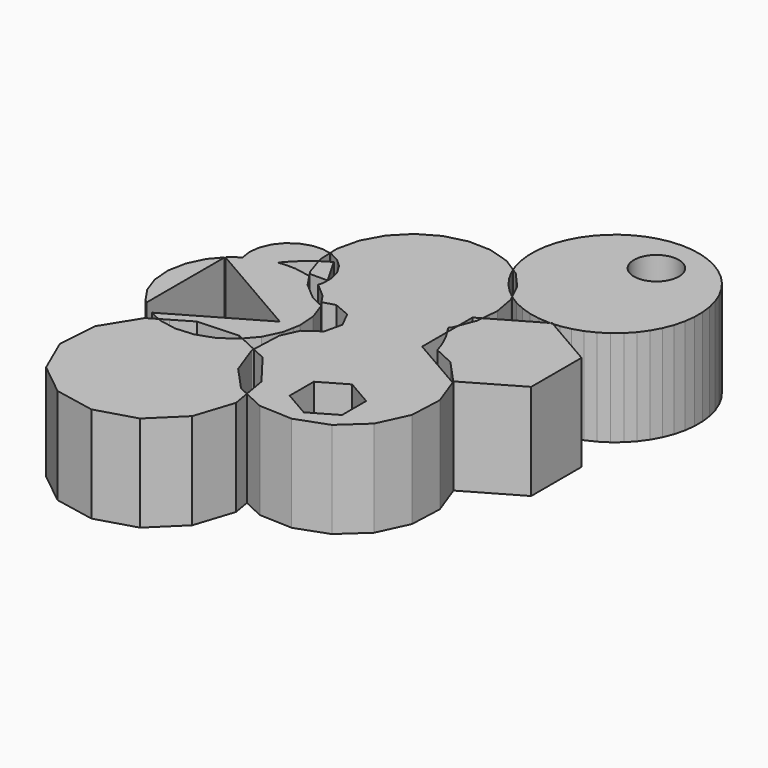
from build123d import *

# Parameters (mm, degrees)
F1_DEPTH = 25.4
F2_R     = 5.9404503645
F3_DEPTH = 25.401
F5_DEPTH = 25.401
F7_DEPTH = 25.401


with BuildPart() as f1:
    # F0 (on Top) → F1 (new body)
    with BuildSketch(Plane.XY):
        Polygon((38.6255197227, 32.1971718366), (38.9059876711, 32.0352435911), (40.6593169873, 32.1504881692), (43.3751453185, 32.6764530991), (46.0036376468, 33.5386541851), (48.5033410779, 34.7234940008), (50.8348337955, 36.2122869147), (52.9613467665, 37.9815537731), (54.8493436113, 40.0033921807), (56.4690494916, 42.2459165381), (57.7949206783, 44.6737608966), (58.8060473905, 47.2486367002), (59.4864835562, 49.9299366195), (59.8254982904, 52.6753749528), (59.8177451283, 55.4416544978), (59.4633463418, 58.1851493734), (58.7678910117, 60.8625930267), (57.7423468837, 63.4317605716), (56.4028874016, 65.8521347014), (54.7706366415, 68.0855446701), (52.8713361728, 70.0967682684), (50.7349390987, 71.8540872986), (48.3951376771, 73.3297877899), (45.8888319743, 74.500597064), (43.2555479283, 75.3480507593), (40.5368140016, 75.8587840246), (37.7755062524, 76.0247422914), (35.0151721532, 75.8433082986), (32.299343822, 75.3173433687), (29.6708514937, 74.4551422827), (27.1711480626, 73.270302467), (24.8396553451, 71.7815095531), (22.713142374, 70.0122426947), (20.8251455292, 67.9904042871), (19.2054396489, 65.7478799296), (17.8795684623, 63.3200355712), (16.86844175, 60.7451597676), (16.1880055843, 58.0638598483), (15.8489908501, 55.3184215149), (15.8567440123, 52.55214197), (16.2111427987, 49.8086470943), (16.9065981289, 47.1312034411), (17.4541888964, 45.7593927217), (18.8612519303, 44.8539979758), (22.7807706822, 40.4374740828), (24.8252480405, 36.2337296509), (24.9395500418, 36.1397091692), (27.2793514634, 34.6640086778), (29.7856571662, 33.4931994037), (32.4189412122, 32.6457457085), (35.1376751389, 32.1350124431), (37.8989828882, 31.9690541764), (38.2729872295, 31.9936371067), align=None)
    extrude(amount=F1_DEPTH)

    # F2 (on face) → F3 (cut, through all)
    with BuildSketch(Plane.XY.offset(25.4)):
        with Locations((40.0871783495, 64.7861286998)):
            Circle(F2_R)
    extrude(amount=-F3_DEPTH, mode=Mode.SUBTRACT)


with BuildPart() as f1b:
    # F0 (on Top) → F1, piece 2 (new body)
    with BuildSketch(Plane.XY):
        with BuildLine():
            Line((20.2202311075, 13.1900553117), (23.1422120773, 17.1140690797))
            ThreePointArc((23.1422120773, 17.1140690797), (6.7140997312, 27.9888228601), (-12.8596717113, 25.7503822063))
            Line((-12.8596717113, 25.7503822063), (-11.6851387854, 24.6534450282))
            Line((-11.6851387854, 24.6534450282), (-10.2225554886, 22.2483292629))
            Line((-10.2225554886, 22.2483292629), (-9.4631012155, 19.5378014634))
            Line((-9.4631012155, 19.5378014634), (-9.4631012155, 18.13034527))
            Line((-9.4631012155, 18.13034527), (-9.4631012155, 16.7228890767))
            Line((-9.4631012155, 16.7228890767), (-9.8367636983, 15.3892702095))
            Line((-9.8367636983, 15.3892702095), (-9.6990329086, 15.3231641348))
            Line((-9.6990329086, 15.3231641348), (-6.0739867066, 12.2117954625))
            Line((-6.0739867066, 12.2117954625), (-4.3897209778, 9.7483537575))
            Line((-4.3897209778, 9.7483537575), (-1.2420349949, 10.701861688))
            Line((-1.2420349949, 10.701861688), (3.1300738388, 8.8327400053))
            Line((3.1300738388, 8.8327400053), (4.2039645479, 6.7116561728))
            Line((4.2039645479, 6.7116561728), (10.0724409367, 7.3668625669))
            Line((10.0724409367, 7.3668625669), (15.5465257322, 9.5810681118))
            Line((15.5465257322, 9.5810681118), (20.2202311075, 13.1900553117))
        make_face()
        with BuildLine():
            ThreePointArc((-12.8596717113, 25.7503822063), (6.7140997312, 27.9888228601), (23.1422120773, 17.1140690797))
            Line((23.1422120773, 17.1140690797), (23.7469297157, 17.9261620959))
            Line((23.7469297157, 17.9261620959), (24.2156683545, 19.1459505131))
            Line((24.2156683545, 19.1459505131), (24.2156683545, 23.8776402702))
            Line((24.2156683545, 23.8776402702), (26.0033568718, 24.9097627169))
            Line((26.0033568718, 24.9097627169), (26.4175371087, 29.3171706222))
            Line((26.4175371087, 29.3171706222), (25.3633791604, 35.1272533724))
            Line((25.3633791604, 35.1272533724), (24.8252480405, 36.2337296509))
            Line((24.8252480405, 36.2337296509), (22.8031529677, 37.8970281994))
            Line((22.8031529677, 37.8970281994), (20.9038524991, 39.9082517977))
            Line((20.9038524991, 39.9082517977), (19.2716017389, 42.1416617664))
            Line((19.2716017389, 42.1416617664), (17.9321422568, 44.5620358962))
            Line((17.9321422568, 44.5620358962), (17.4541888964, 45.7593927217))
            Line((17.4541888964, 45.7593927217), (13.89551568, 48.0492716787))
            Line((13.89551568, 48.0492716787), (8.2518478721, 49.7863163582))
            Line((8.2518478721, 49.7863163582), (2.34881353, 49.9363033569))
            Line((2.34881353, 49.9363033569), (-3.3757862938, 48.4881088254))
            Line((-3.3757862938, 48.4881088254), (-8.4973842187, 45.5491387269))
            Line((-8.4973842187, 45.5491387269), (-12.6361347563, 41.3373630287))
            Line((-12.6361347563, 41.3373630287), (-15.4850857128, 36.1651498669))
            Line((-15.4850857128, 36.1651498669), (-16.8329434288, 30.4160986302))
            Line((-16.8329434288, 30.4160986302), (-16.727997066, 27.9708693955))
            Line((-16.727997066, 27.9708693955), (-16.2416970932, 27.869815099))
            Line((-16.2416970932, 27.869815099), (-13.7423779939, 26.5747723256))
            Line((-13.7423779939, 26.5747723256), (-12.8596717113, 25.7503822063))
        make_face()
        with BuildLine():
            ThreePointArc((28.3733258744, 4.8381524491), (28.6802977645, 2.4277274218), (28.7828653941, 0))
            ThreePointArc((28.7828653941, 0), (23.1366804478, -17.1215466051), (8.4132910563, -27.5258037829))
            Line((8.4132910563, -27.5258037829), (9.1459829048, -31.820513794))
            Line((9.1459829048, -31.820513794), (14.6004309277, -34.3588426688))
            Line((14.6004309277, -34.3588426688), (23.3261366969, -34.7330697709))
            Line((23.3261366969, -34.7330697709), (31.5308481756, -31.7396274975))
            Line((31.5308481756, -31.7396274975), (37.9654724172, -25.8342402992))
            Line((37.9654724172, -25.8342402992), (41.6503962109, -17.9159498443))
            Line((41.6503962109, -17.9159498443), (42.024623313, -9.1902440751))
            Line((42.024623313, -9.1902440751), (39.0311810396, -0.9855325964))
            Line((39.0311810396, -0.9855325964), (38.9479240713, -0.8948141916))
            Line((38.9479240713, -0.8948141916), (38.6255197227, -1.080954429))
            Line((38.6255197227, -1.080954429), (28.3733258744, 4.8381524491))
        make_face()
        with BuildLine():
            ThreePointArc((8.4132910563, -27.5258037829), (23.1366804478, -17.1215466051), (28.7828653941, 0))
            ThreePointArc((28.7828653941, 0), (28.6802977645, 2.4277274218), (28.3733258744, 4.8381524491))
            Line((28.3733258744, 4.8381524491), (24.2156683545, 7.2385771374))
            Line((24.2156683545, 7.2385771374), (24.2156683545, 9.1765531498))
            Line((24.2156683545, 9.1765531498), (16.4817976172, 9.508242541))
            Line((16.4817976172, 9.508242541), (8.2770861384, 6.5148002676))
            Line((8.2770861384, 6.5148002676), (5.0315883267, 3.5362392032))
            Line((5.0315883267, 3.5362392032), (4.196338464, -0.0396839103))
            Line((4.196338464, -0.0396839103), (0.3915771872, -2.891480387))
            Line((0.3915771872, -2.891480387), (0.2177050356, -2.8819201214))
            Line((0.2177050356, -2.8819201214), (-1.8424618968, -7.3088773857))
            Line((-1.8424618968, -7.3088773857), (-2.1882418165, -15.3712914203))
            Line((-2.1882418165, -15.3712914203), (1.5308094737, -17.1002806211))
            Line((1.5308094737, -17.1002806211), (8.1024370829, -25.7037176299))
            Line((8.1024370829, -25.7037176299), (8.4132910563, -27.5258037829))
        make_face()
        with BuildLine():
            Line((24.2156683545, 9.1765531498), (24.2156683545, 15.5581087038))
            ThreePointArc((24.2156683545, 15.5581087038), (23.6917171797, 16.3449037126), (23.1422120773, 17.1140690797))
            Line((23.1422120773, 17.1140690797), (20.2202311075, 13.1900553117))
            Line((20.2202311075, 13.1900553117), (15.5465257322, 9.5810681118))
            Line((15.5465257322, 9.5810681118), (10.0724409367, 7.3668625669))
            Line((10.0724409367, 7.3668625669), (4.2039645479, 6.7116561728))
            Line((4.2039645479, 6.7116561728), (5.277855257, 4.5905723402))
            Line((5.277855257, 4.5905723402), (5.0315883267, 3.5362392032))
            Line((5.0315883267, 3.5362392032), (8.2770861384, 6.5148002676))
            Line((8.2770861384, 6.5148002676), (16.4817976172, 9.508242541))
            Line((16.4817976172, 9.508242541), (24.2156683545, 9.1765531498))
        make_face()
    extrude(amount=F1_DEPTH)

    # F4 (on face) → F5 (cut, through all)
    with BuildSketch(Plane.XY.offset(25.4)):
        Polygon((30.4059423506, -26.9696146458), (30.4059423506, -18.9801014751), (23.4868209809, -14.9853448898), (16.5676996112, -18.9801014751), (16.5676996112, -26.9696146458), (23.4868209809, -30.9643712312), align=None)
    extrude(amount=-F5_DEPTH, mode=Mode.SUBTRACT)


with BuildPart() as f1c:
    # F0 (on Top) → F1, piece 3 (new body)
    with BuildSketch(Plane.XY):
        with BuildLine():
            ThreePointArc((24.2156683545, 15.5581087038), (26.2066330001, 11.9023412441), (27.6494392789, 7.9976151357))
            Line((27.6494392789, 7.9976151357), (33.1257938412, 5.4490916452))
            Line((33.1257938412, 5.4490916452), (38.9479240713, -0.8948141916))
            Line((38.9479240713, -0.8948141916), (53.0353710909, 7.2385771374))
            Line((53.0353710909, 7.2385771374), (53.0353710909, 23.8776402702))
            Line((53.0353710909, 23.8776402702), (38.9059876711, 32.0352435911))
            Line((38.9059876711, 32.0352435911), (38.2729872295, 31.9936371067))
            Line((38.2729872295, 31.9936371067), (26.0033568718, 24.9097627169))
            Line((26.0033568718, 24.9097627169), (25.8650624546, 23.4381330904))
            Line((25.8650624546, 23.4381330904), (24.2156683545, 19.1459505131))
            Line((24.2156683545, 19.1459505131), (24.2156683545, 15.5581087038))
        make_face()
    extrude(amount=F1_DEPTH)


with BuildPart() as f1d:
    # F0 (on Top) → F1, piece 4 (new body)
    with BuildSketch(Plane.XY):
        with BuildLine():
            Line((-23.4642712006, 17.9090608392), (-22.4722893501, 17.9847032686))
            ThreePointArc((-22.4722893501, 17.9847032686), (-19.7270370189, 20.959421527), (-16.591618375, 23.5195990611))
            Line((-16.591618375, 23.5195990611), (-16.3758885964, 23.8932539983))
            Line((-16.3758885964, 23.8932539983), (-16.5797434636, 24.5165901489))
            Line((-16.5797434636, 24.5165901489), (-16.727997066, 27.9708693955))
            Line((-16.727997066, 27.9708693955), (-18.9977330192, 28.4425259503))
            Line((-18.9977330192, 28.4425259503), (-21.8060831954, 28.2504295356))
            Line((-21.8060831954, 28.2504295356), (-24.4584651366, 27.3077727673))
            Line((-24.4584651366, 27.3077727673), (-26.758163808, 25.6844681854))
            Line((-26.758163808, 25.6844681854), (-28.5346210796, 23.5009088647))
            Line((-28.5346210796, 23.5009088647), (-29.6560852423, 20.9190394109))
            Line((-29.6560852423, 20.9190394109), (-30.0393824295, 18.13034527))
            Line((-30.0393824295, 18.13034527), (-29.6560852423, 15.3416511292))
            Line((-29.6560852423, 15.3416511292), (-29.5997644381, 15.2119876332))
            Line((-29.5997644381, 15.2119876332), (-27.9713186123, 16.3253630746))
            Line((-27.9713186123, 16.3253630746), (-23.4642712006, 17.9090608392))
        make_face()
        with BuildLine():
            Line((-25.9893602516, -17.1075897127), (-23.9764866654, -15.924240248))
            ThreePointArc((-23.9764866654, -15.924240248), (-28.624863197, -3.0117349227), (-26.7656766053, 10.5854568231))
            Line((-26.7656766053, 10.5854568231), (-28.5346210796, 12.7597816754))
            Line((-28.5346210796, 12.7597816754), (-29.5997644381, 15.2119876332))
            Line((-29.5997644381, 15.2119876332), (-31.9149009644, 13.6291187954))
            Line((-31.9149009644, 13.6291187954), (-35.0262696367, 10.0040725934))
            Line((-35.0262696367, 10.0040725934), (-37.093389996, 5.6972653767))
            Line((-37.093389996, 5.6972653767), (-37.9753912057, 1.0021989398))
            Line((-37.9753912057, 1.0021989398), (-37.6121663412, -3.7611656987))
            Line((-37.6121663412, -3.7611656987), (-36.0284685765, -8.2682131104))
            Line((-36.0284685765, -8.2682131104), (-33.3322242973, -12.2117954625))
            Line((-33.3322242973, -12.2117954625), (-29.7071780954, -15.3231641348))
            Line((-29.7071780954, -15.3231641348), (-25.9893602516, -17.1075897127))
        make_face()
        with BuildLine():
            ThreePointArc((-26.7656766053, 10.5854568231), (-28.624863197, -3.0117349227), (-23.9764866654, -15.924240248))
            Line((-23.9764866654, -15.924240248), (-19.0998941513, -13.0573373381))
            Line((-19.0998941513, -13.0573373381), (-8.2862943284, -12.5363031084))
            Line((-8.2862943284, -12.5363031084), (-7.0476118275, -13.1121673545))
            Line((-7.0476118275, -13.1121673545), (-4.3799413672, -10.0040725934))
            Line((-4.3799413672, -10.0040725934), (-2.312821008, -5.6972653767))
            Line((-2.312821008, -5.6972653767), (-1.7634745931, -2.7729860377))
            Line((-1.7634745931, -2.7729860377), (-4.356138487, -2.6304298244))
            Line((-4.356138487, -2.6304298244), (-7.8252996295, 0.6213193182))
            Line((-7.8252996295, 0.6213193182), (-8.3926471863, 5.3422374777))
            Line((-8.3926471863, 5.3422374777), (-5.7927129303, 9.3233545801))
            Line((-5.7927129303, 9.3233545801), (-5.4295037602, 9.4333791588))
            Line((-5.4295037602, 9.4333791588), (-6.9782402148, 10.153387676))
            Line((-6.9782402148, 10.153387676), (-10.654221026, 13.3025175428))
            Line((-10.654221026, 13.3025175428), (-11.6851387854, 11.6072455119))
            Line((-11.6851387854, 11.6072455119), (-13.7423779939, 9.6859182144))
            Line((-13.7423779939, 9.6859182144), (-16.2416970932, 8.390875441))
            Line((-16.2416970932, 8.390875441), (-18.9977330192, 7.8181645898))
            Line((-18.9977330192, 7.8181645898), (-21.8060831954, 8.0102610044))
            Line((-21.8060831954, 8.0102610044), (-24.4584651366, 8.9529177728))
            Line((-24.4584651366, 8.9529177728), (-26.758163808, 10.5762223547))
            Line((-26.758163808, 10.5762223547), (-26.7656766053, 10.5854568231))
        make_face()
        with BuildLine():
            ThreePointArc((-22.4722893501, 17.9847032686), (-24.8954119236, 14.4454769893), (-26.7656766053, 10.5854568231))
            Line((-26.7656766053, 10.5854568231), (-26.758163808, 10.5762223547))
            Line((-26.758163808, 10.5762223547), (-24.4584651366, 8.9529177728))
            Line((-24.4584651366, 8.9529177728), (-21.8060831954, 8.0102610044))
            Line((-21.8060831954, 8.0102610044), (-18.9977330192, 7.8181645898))
            Line((-18.9977330192, 7.8181645898), (-16.2416970932, 8.390875441))
            Line((-16.2416970932, 8.390875441), (-13.7423779939, 9.6859182144))
            Line((-13.7423779939, 9.6859182144), (-11.6851387854, 11.6072455119))
            Line((-11.6851387854, 11.6072455119), (-10.654221026, 13.3025175428))
            Line((-10.654221026, 13.3025175428), (-11.4626356167, 13.9950680927))
            Line((-11.4626356167, 13.9950680927), (-13.6030254691, 17.1969472177))
            Line((-13.6030254691, 17.1969472177), (-14.0058401252, 17.390284494))
            Line((-14.0058401252, 17.390284494), (-17.945329632, 18.13034527))
            Line((-17.945329632, 18.13034527), (-19.703105502, 18.13034527))
            Line((-19.703105502, 18.13034527), (-19.6635360901, 18.1988815018))
            Line((-19.6635360901, 18.1988815018), (-22.4722893501, 17.9847032686))
        make_face()
        Polygon((-4.356138487, -2.6304298244), (-1.7634745931, -2.7729860377), (-1.4308197982, -1.0021989398), (-1.7940446627, 3.7611656987), (-3.3777424274, 8.2682131104), (-3.5895262619, 8.5779725037), (-5.4295037602, 9.4333791588), (-5.7927129303, 9.3233545801), (-8.3926471863, 5.3422374777), (-7.8252996295, 0.6213193182), align=None)
        with BuildLine():
            Line((-28.5346210796, 12.7597816754), (-26.7656766053, 10.5854568231))
            ThreePointArc((-26.7656766053, 10.5854568231), (-24.8954119236, 14.4454769893), (-22.4722893501, 17.9847032686))
            Line((-22.4722893501, 17.9847032686), (-23.4642712006, 17.9090608392))
            Line((-23.4642712006, 17.9090608392), (-27.9713186123, 16.3253630746))
            Line((-27.9713186123, 16.3253630746), (-29.5997644381, 15.2119876332))
            Line((-29.5997644381, 15.2119876332), (-28.5346210796, 12.7597816754))
        make_face()
    extrude(amount=F1_DEPTH)

    # F6 (on face) → F7 (cut, through all)
    with BuildSketch(Plane.XY.offset(25.4)):
        Polygon((-32.5133949518, 12.9318152662), (-32.5133949518, -12.9145947736), (-29.7071780954, -15.3231641348), (-28.8106541589, -15.7534650023), (-5.6726746261, -2.3947462905), (-32.4158680109, 13.0454436092), align=None)
    extrude(amount=-F7_DEPTH, mode=Mode.SUBTRACT)


with BuildPart() as f1e:
    # F0 (on Top) → F1, piece 5 (new body)
    with BuildSketch(Plane.XY):
        with BuildLine():
            Line((-9.4631012155, 18.13034527), (-13.6315148057, 25.3502493952))
            ThreePointArc((-13.6315148057, 25.3502493952), (-14.9963631382, 24.567507666), (-16.3164009438, 23.7113559405))
            Line((-16.3164009438, 23.7113559405), (-14.7442645002, 18.9041639784))
            Line((-14.7442645002, 18.9041639784), (-14.2269827271, 18.13034527))
            Line((-14.2269827271, 18.13034527), (-9.4631012155, 18.13034527))
        make_face()
    extrude(amount=F1_DEPTH)


with BuildPart() as f1f:
    # F0 (on Top) → F1, piece 6 (new body)
    with BuildSketch(Plane.XY):
        with BuildLine():
            Line((6.6821404728, -30.6739188752), (4.6061757026, -28.4119074631))
            ThreePointArc((4.6061757026, -28.4119074631), (-10.3743208319, -26.8482179589), (-22.513954191, -17.9325181439))
            Line((-22.513954191, -17.9325181439), (-25.4003708787, -17.390284494))
            Line((-25.4003708787, -17.390284494), (-25.9893602516, -17.1075897127))
            Line((-25.9893602516, -17.1075897127), (-28.4327245936, -18.5440206472))
            Line((-28.4327245936, -18.5440206472), (-34.1467466736, -27.7394200114))
            Line((-34.1467466736, -27.7394200114), (-34.9329467944, -38.5369802528))
            Line((-34.9329467944, -38.5369802528), (-30.611215983, -48.463110445))
            Line((-30.611215983, -48.463110445), (-22.1716106857, -55.2438537837))
            Line((-22.1716106857, -55.2438537837), (-11.547542768, -57.3258236867))
            Line((-11.547542768, -57.3258236867), (-1.1728581558, -54.2320659399))
            Line((-1.1728581558, -54.2320659399), (6.5757279346, -46.6713231592))
            Line((6.5757279346, -46.6713231592), (9.9231078106, -36.3756703987))
            Line((9.9231078106, -36.3756703987), (9.1459829048, -31.820513794))
            Line((9.1459829048, -31.820513794), (6.6821404728, -30.6739188752))
        make_face()
        with BuildLine():
            ThreePointArc((-22.513954191, -17.9325181439), (-10.3743208319, -26.8482179589), (4.6061757026, -28.4119074631))
            Line((4.6061757026, -28.4119074631), (0.7767532745, -24.2392946336))
            Line((0.7767532745, -24.2392946336), (-2.2166889989, -16.0345831548))
            Line((-2.2166889989, -16.0345831548), (-2.1882418165, -15.3712914203))
            Line((-2.1882418165, -15.3712914203), (-7.0476118275, -13.1121673545))
            Line((-7.0476118275, -13.1121673545), (-7.4913100395, -13.6291187954))
            Line((-7.4913100395, -13.6291187954), (-11.4348923916, -16.3253630746))
            Line((-11.4348923916, -16.3253630746), (-15.9419398033, -17.9090608392))
            Line((-15.9419398033, -17.9090608392), (-20.7053044418, -18.2722857038))
            Line((-20.7053044418, -18.2722857038), (-22.513954191, -17.9325181439))
        make_face()
    extrude(amount=F1_DEPTH)


solid = Compound([f1.part, f1b.part, f1c.part, f1d.part, f1e.part, f1f.part])
